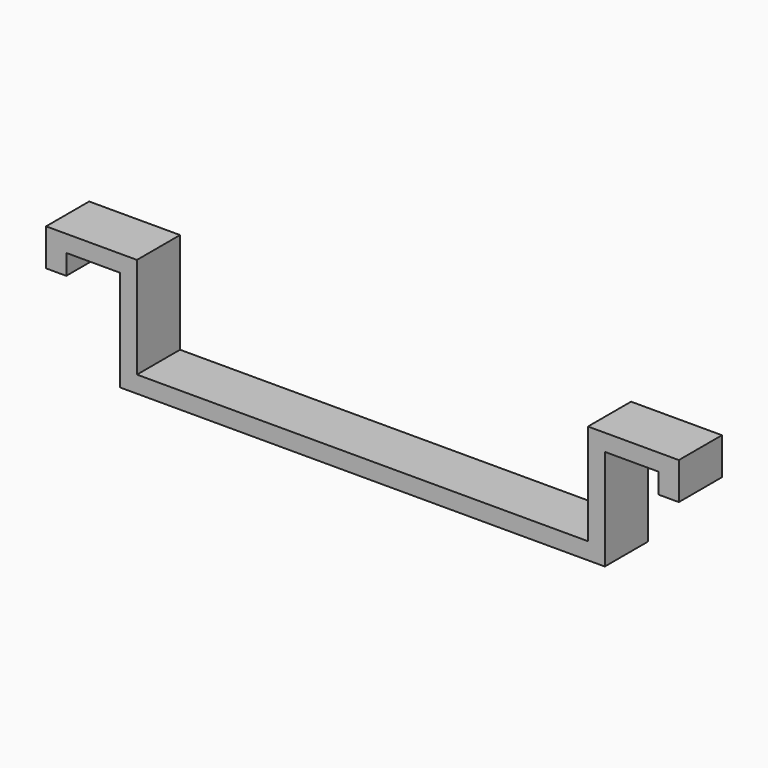
from build123d import *

# Parameters (mm, degrees)
F0_W     = 3
F0_H     = 3
F1_DEPTH = 4


with BuildPart() as f1:
    # F0 (on Front) → F1 (new body, symmetric)
    with BuildSketch(Plane.XZ):
        Polygon((-33.5, 0), (-47, 0), (-47, -2.5), (-44, -2.5), (-36, -2.5), (-36, -17.5), (0, -17.5), (0, -15), (-33.5, -15), align=None)
        with Locations((-45.5, -4)):
            Rectangle(F0_W, F0_H)
    extrude(amount=F1_DEPTH, both=True)

    # F3: F1 across plane


with BuildPart() as f1_1:
    add(f1.part)
    add(f1.part.mirror(Plane.YZ))


solid = f1_1.part
